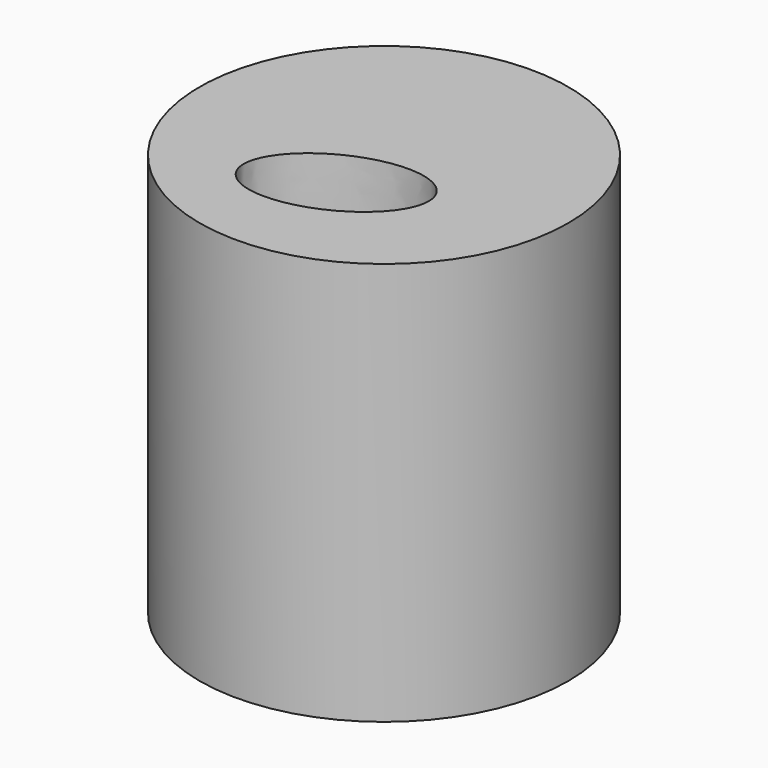
from build123d import *

# Parameters (mm, degrees)
F0_R     = 50.998703
F1_DEPTH = 111.506
F3_DEPTH = 25.4
F4_DEPTH = 219.964


with BuildPart() as f1:
    # F0 (on Top) → F1 (new body)
    with BuildSketch(Plane.XY):
        Circle(F0_R)
    extrude(amount=F1_DEPTH)

    # F2 (on face) → F3 (join)
    with BuildSketch(Plane.XY.offset(111.506)):
        with BuildLine():
            add(Edge.make_bspline(
                [(20.416819, -7.703019), (11.568052, 12.789288), (-14.632792, -10.68112), (-40.833637, -34.151528), (-5.784026, -31.173427), (29.265585, -28.195327), (20.416819, -7.703019)],
                knots=[0, 0, 0, 2.094395, 2.094395, 4.18879, 4.18879, 6.283185, 6.283185, 6.283185], degree=2, weights=[1, 0.5, 1, 0.5, 1, 0.5, 1]))
        make_face()
    extrude(amount=F3_DEPTH)

    # F3_face (on face) → F4 (cut)
    with BuildSketch(Plane(origin=(0.082109, -16.547367, 136.906), x_dir=(1, 0, 0), z_dir=(0, 0, 1))):
        with BuildLine():
            add(Edge.make_bspline(
                [(20.33471, 8.844348), (11.485943, 29.336655), (-14.714901, 5.866247), (-40.915746, -17.604161), (-5.866135, -14.62606), (29.183476, -11.64796), (20.33471, 8.844348)],
                knots=[0, 0, 0, 2.094395, 2.094395, 4.18879, 4.18879, 6.283185, 6.283185, 6.283185], degree=2, weights=[1, 0.5, 1, 0.5, 1, 0.5, 1]))
        make_face()
    extrude(amount=-F4_DEPTH, mode=Mode.SUBTRACT)


solid = f1.part
